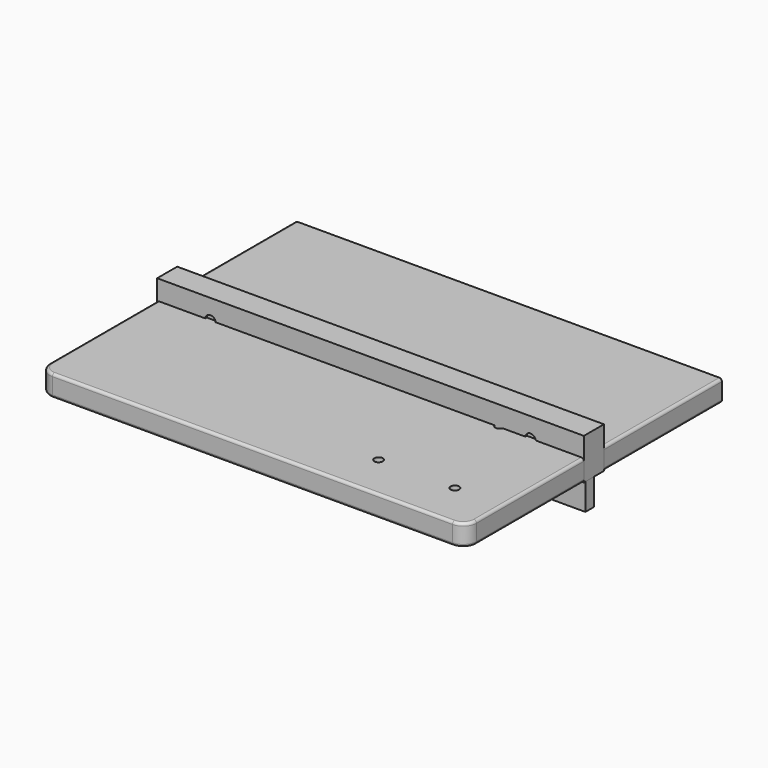
from build123d import *

# Parameters (mm, degrees)
F0_W            = 800
F0_H            = 600
F1_DEPTH        = 40
F2_R            = 25
F3_R            = 5
F5_D            = 3
F5_DEPTH        = 20
F5_TIP          = 0.9012909285
F7_DEPTH        = 20
F8_D            = 5
F8_CBORE_D      = 15
F8_CBORE_DEPTH  = 10
F9_W            = 800
F9_H            = 47
F10_DEPTH       = 77
F12_D           = 6
F12_CBORE_D     = 20
F12_CBORE_DEPTH = 10
F13_D           = 16


with BuildPart() as f1:
    # F0 (on Top) → F1 (new body)
    with BuildSketch(Plane.XY):
        Rectangle(F0_W, F0_H)
    extrude(amount=F1_DEPTH)

    # F2
    f2_edges = [f1.edges().sort_by_distance(p)[0] for p in [
        (400, -300, 20),
        (-400, -300, 20),
    ]]
    fillet(f2_edges, radius=F2_R)

    # F3
    f3_edges = [f1.edges().sort_by_distance(p)[0] for p in [
        (400, 12.5, 40),
        (0, -300, 0),
    ]]
    fillet(f3_edges, radius=F3_R)

    # F5
    with Locations(Plane(origin=(0, 300, 0), x_dir=(-1, 0, 0), z_dir=(0, 1, 0))):
        with Locations((-250, 20), (0, 20), (250, 20)):
            Hole(F5_D / 2, depth=F5_DEPTH)
            with Locations((0, 0, -(F5_DEPTH + F5_TIP / 2))):  # 118° drill point
                Cone(0, F5_D / 2, F5_TIP, mode=Mode.SUBTRACT)

    # F13 (through all)
    with Locations(Plane(origin=(0, 0, 0), x_dir=(1, 0, 0), z_dir=(0, 0, -1))):
        with Locations((168.5, 215), (311.5, 215), (240, 21)):
            Hole(F13_D / 2)


with BuildPart() as f7:
    # F6 (on Front) → F7 (new body)
    with BuildSketch(Plane.XZ):
        with BuildLine():
            ThreePointArc((400, 25), (392.6776695297, 42.6776695297), (375, 50))
            Line((375, 50), (-375, 50))
            ThreePointArc((-375, 50), (-392.6776695297, 42.6776695297), (-400, 25))
            Line((-400, 25), (-400, -50))
            Line((-400, -50), (400, -50))
            Line((400, -50), (400, 25))
        make_face()
    extrude(amount=F7_DEPTH)

    # F8 (through all)
    with Locations(Plane(origin=(0, 0, 0), x_dir=(1, 0, 0), z_dir=(0, 1, 0))):
        with Locations((250, 32), (0, 32), (-250, 32)):
            CounterBoreHole(F8_D / 2, F8_CBORE_D / 2, F8_CBORE_DEPTH)


with BuildPart() as f10:
    # F9 (on Top) → F10 (new body)
    with BuildSketch(Plane.XY):
        Rectangle(F9_W, F9_H)
    extrude(amount=F10_DEPTH)

    # F12 (through all)
    with Locations(Plane.XZ.offset(23.5)):
        with Locations((-300, 38.5), (300, 38.5)):
            CounterBoreHole(F12_D / 2, F12_CBORE_D / 2, F12_CBORE_DEPTH)


solid = Compound([f1.part, f7.part, f10.part])
